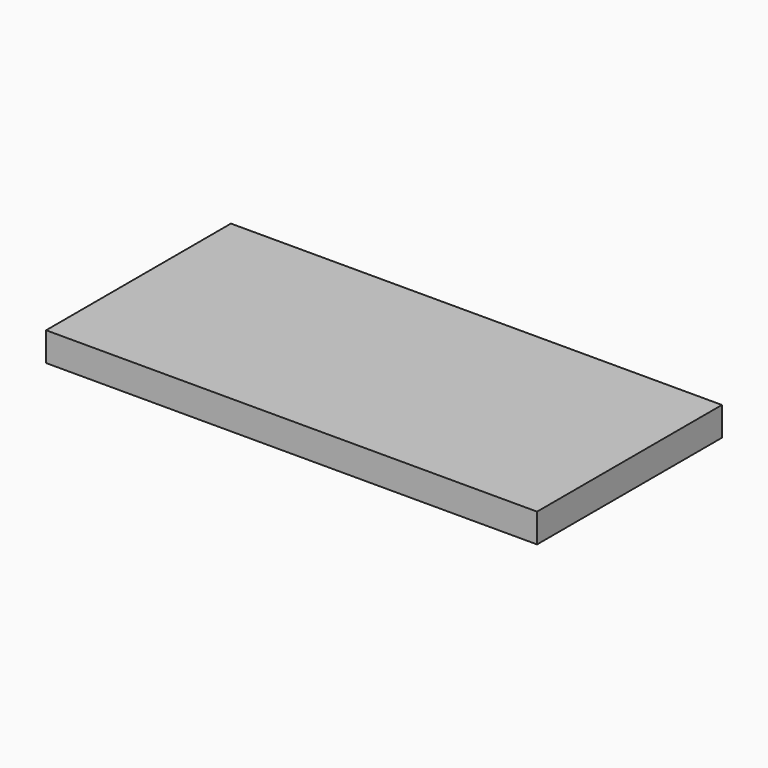
from build123d import *

# Parameters (mm, degrees)
SKETCH_W  = 170
SKETCH_H  = 80
PAD_DEPTH = 10


with BuildPart() as part:
    # Sketch → Pad (new body)
    with BuildSketch(Plane.XY):
        with Locations((-85, 40)):
            Rectangle(SKETCH_W, SKETCH_H)
    extrude(amount=PAD_DEPTH)


solid = part.part
